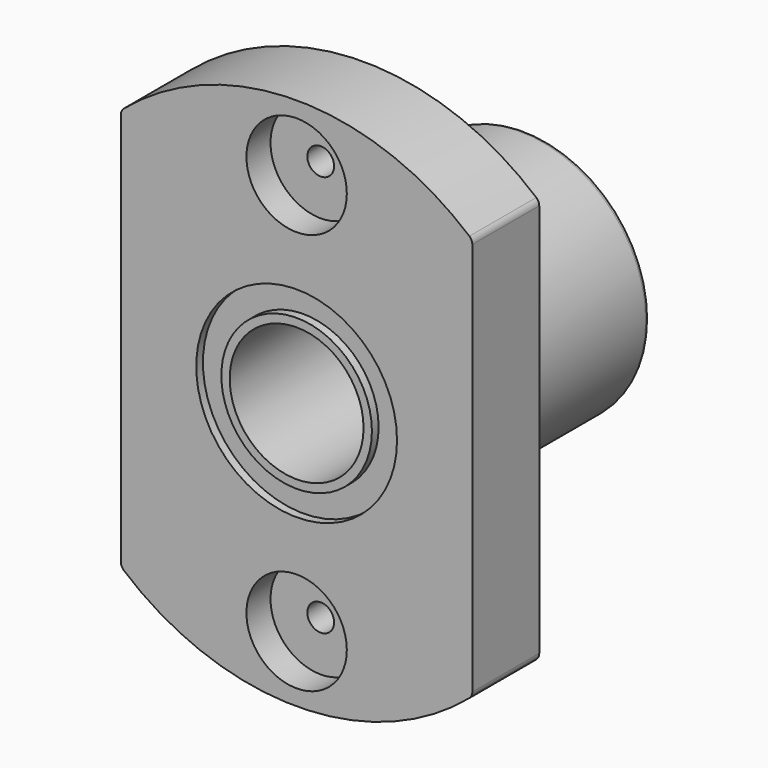
from build123d import *

# Parameters (mm, degrees)
SKETCH_R         = 6
PAD_DEPTH        = 5
HOLE_D           = 1.6
HOLE_CBORE_D     = 6
HOLE_CBORE_DEPTH = 1.8
SKETCH002_R      = 7.5
SKETCH002_R_2    = 6
PAD001_DEPTH     = 12
FILLET_R         = 0.5
FILLET001_R      = 0.3
SKETCH003_R      = 6
SKETCH003_R_2    = 4.5
PAD002_DEPTH     = 16
SKETCH004_R      = 4.5
SKETCH004_R_2    = 4
PAD003_DEPTH     = 17


with BuildPart() as body:
    # Sketch → Pad (new body)
    with BuildSketch(Plane.XZ):
        with BuildLine():
            ThreePointArc((10.5, 12), (0, 15.945219), (-10.5, 12))
            Line((-10.5, 12), (-10.5, -12))
            ThreePointArc((-10.5, -12), (0, -15.945219), (10.5, -12))
            Line((10.5, 12), (10.5, -12))
        make_face()
        Circle(SKETCH_R, mode=Mode.SUBTRACT)
    extrude(amount=-PAD_DEPTH)

    # Hole (through all)
    with Locations(Plane.XZ):
        with Locations((0, 12), (0, -12)):
            CounterBoreHole(HOLE_D / 2, HOLE_CBORE_D / 2, HOLE_CBORE_DEPTH)

    # Sketch002 (on Face5 of Hole) → Pad001 (join)
    with BuildSketch(Plane(origin=(0, 5, 0), x_dir=(1, 0, 0), z_dir=(0, 1, 0))):
        Circle(SKETCH002_R)
        Circle(SKETCH002_R_2, mode=Mode.SUBTRACT)
    extrude(amount=PAD001_DEPTH)

    # Fillet
    fillet_edges = [body.edges().sort_by_distance(p)[0] for p in [
        (10.5, 2.5, -12),
        (10.5, 2.5, 12),
        (-10.5, 2.5, 12),
        (-10.5, 2.5, -12),
    ]]
    fillet(fillet_edges, radius=FILLET_R)

    # Fillet001
    fillet001_edges = [body.edges().sort_by_distance(p)[0] for p in [
        (-7.5, 17, 0),
        (-6, 17, 0),
    ]]
    fillet(fillet001_edges, radius=FILLET001_R)


with BuildPart() as body001:
    # Sketch003 → Pad002 (new body)
    with BuildSketch(Plane.XZ):
        Circle(SKETCH003_R)
        Circle(SKETCH003_R_2, mode=Mode.SUBTRACT)
    extrude(amount=-PAD002_DEPTH)


with BuildPart() as body001_1:
    # Body001 placement: moved
    add(body001.part.moved(Location((0, 0.5, 0))))


with BuildPart() as body002:
    # Sketch004 → Pad003 (new body)
    with BuildSketch(Plane.XZ):
        Circle(SKETCH004_R)
        Circle(SKETCH004_R_2, mode=Mode.SUBTRACT)
    extrude(amount=-PAD003_DEPTH)


solid = Compound([body.part, body001_1.part, body002.part])
